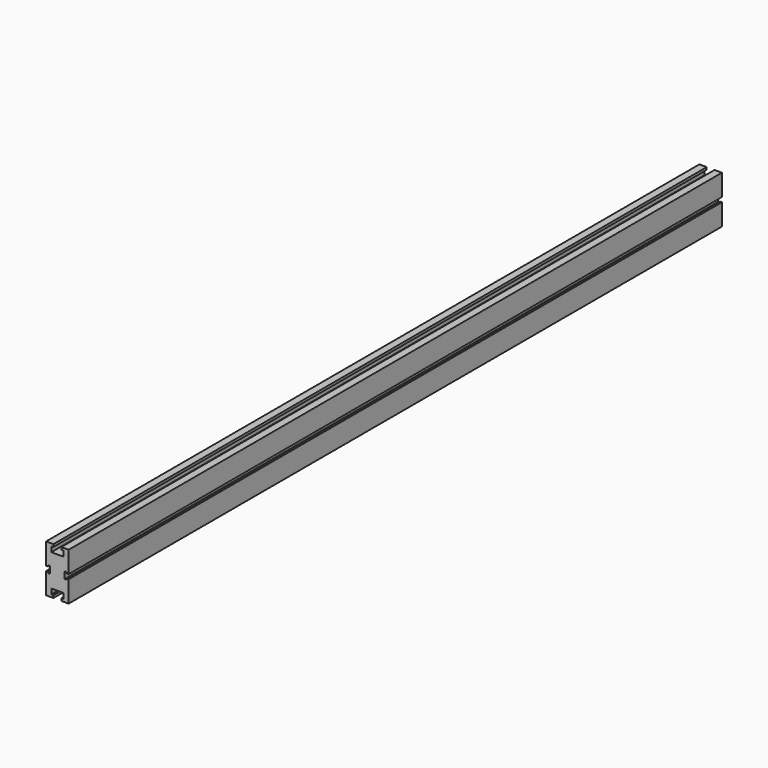
from build123d import *

# Parameters (mm, degrees)
F2_DEPTH = 1000


with BuildPart() as f2:
    # F1 (on Front) → F2 (new body)
    with BuildSketch(Plane.XZ):
        Polygon((7.322949823, 19.5278655738), (0, 19.5278655738), (-7.322949823, 19.5278655738), (-7.322949823, 26.0371528566), (-4.7793341801, 26.0371528566), (-4.7793341801, 29.0499385446), (-13.8103738427, 29.0499385446), (-13.8103738427, 2.7631602716), (-11.3913444802, 2.7631602716), (-11.3913444802, 4.2145773768), (-8.8110473007, 4.2145773768), (-8.8110473007, 0), (-8.8110473007, -4.2145773768), (-11.3913444802, -4.2145773768), (-11.3913444802, -2.7631602716), (-13.8103738427, -2.7631602716), (-13.8103738427, -29.0499385446), (-4.7793341801, -29.0499385446), (-4.7793341801, -26.0371528566), (-7.322949823, -26.0371528566), (-7.322949823, -19.5278655738), (0, -19.5278655738), (7.322949823, -19.5278655738), (7.322949823, -26.0371528566), (4.7793341801, -26.0371528566), (4.7793341801, -29.0499385446), (13.8103738427, -29.0499385446), (13.8103738427, -2.7631602716), (11.3913444802, -2.7631602716), (11.3913444802, -4.2145773768), (8.8110473007, -4.2145773768), (8.8110473007, 0), (8.8110473007, 4.2145773768), (11.3913444802, 4.2145773768), (11.3913444802, 2.7631602716), (13.8103738427, 2.7631602716), (13.8103738427, 29.0499385446), (4.7793341801, 29.0499385446), (4.7793341801, 26.0371528566), (7.322949823, 26.0371528566), align=None)
    extrude(amount=F2_DEPTH)


solid = f2.part
